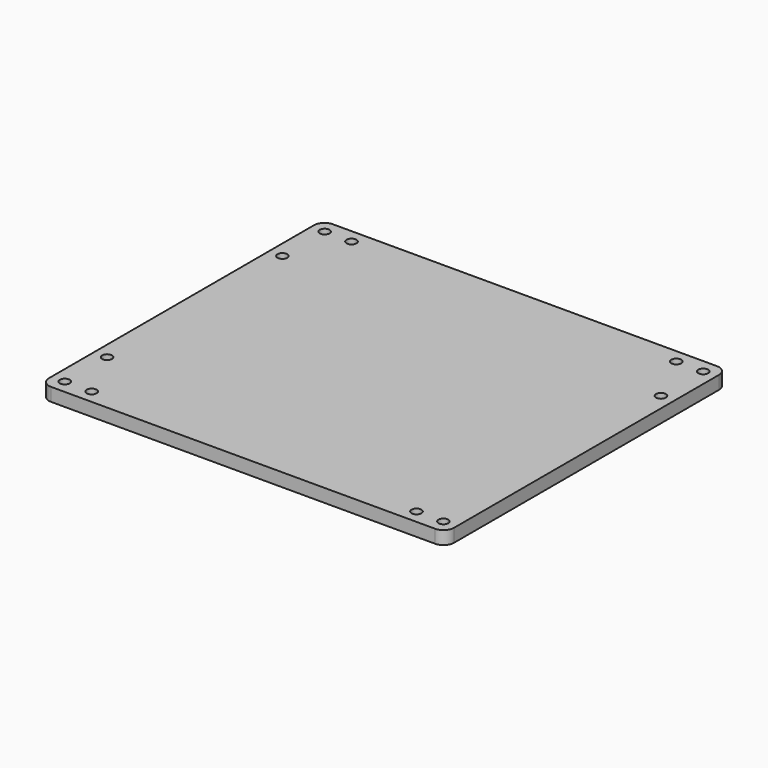
from build123d import *

# Parameters (mm, degrees)
F0_W     = 127
F0_H     = 127
F0_W_2   = 9.525
F1_DEPTH = 4.7625
F2_D     = 3.556
F3_R     = 3.81


with BuildPart() as f1:
    # F0 (on Top) → F1 (new body)
    with BuildSketch(Plane.XY):
        Rectangle(F0_W, F0_H)
        with Locations((-68.2625, 0)):
            Rectangle(F0_W_2, F0_H)
        with Locations((68.2625, 0)):
            Rectangle(F0_W_2, F0_H)
    extrude(amount=F1_DEPTH)

    # F2 (through all)
    with Locations(Plane(origin=(0, 0, 0), x_dir=(1, 0, 0), z_dir=(0, 0, -1))):
        with Locations((-68.2498, -58.547), (-58.547, -58.547), (-68.2498, -39.497), (-68.2498, 39.497), (-68.2498, 58.547), (-58.547, 58.547), (58.547, 58.547), (68.2625, 58.547), (68.2625, -58.547), (68.2625, -39.497), (58.547, -58.547)):
            Hole(F2_D / 2)

    # F3
    f3_edges = [f1.edges().sort_by_distance(p)[0] for p in [
        (-73.025, 63.5, 2.38125),
        (-73.025, -63.5, 2.38125),
        (73.025, -63.5, 2.38125),
        (73.025, 63.5, 2.38125),
    ]]
    fillet(f3_edges, radius=F3_R)


solid = f1.part
